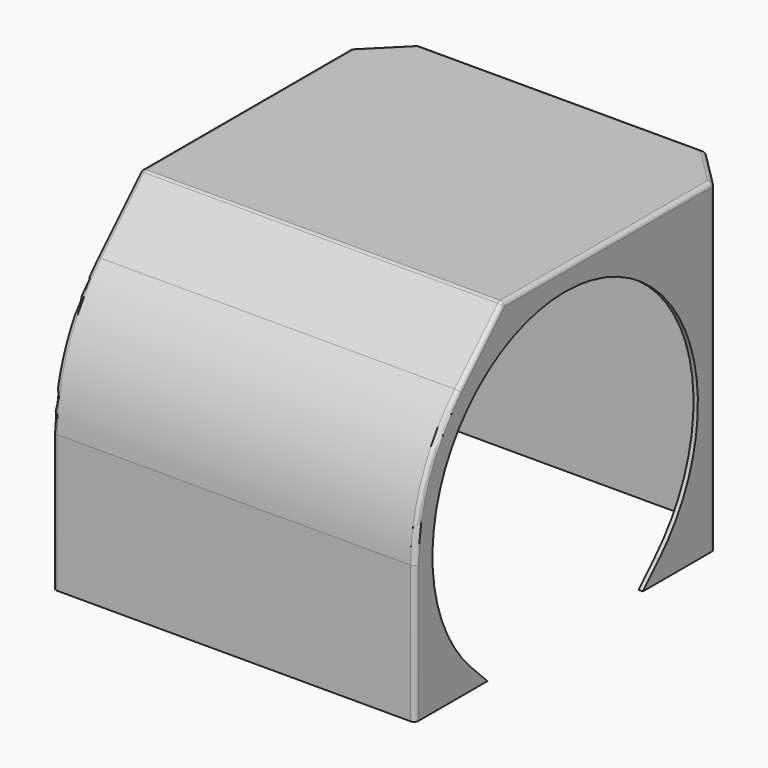
from build123d import *

# Parameters (mm, degrees)
PAD006_DEPTH    = 40.5
CHAMFER017_SIZE = 8
THICKNESS_T     = 1
POCKET015_DEPTH = 83.001


with BuildPart() as part:
    # Sketch022 → Pad006 (new body, symmetric)
    with BuildSketch(Plane.YZ):
        with BuildLine():
            ThreePointArc((-21.698485, 29.698485), (-30.80294, 16.072704), (-34, 0))
            Line((-34, 0), (-34, -31.5))
            Line((58, -31.5), (-34, -31.5))
            Line((58, 42), (58, -31.5))
            Line((-9.39697, 42), (58, 42))
            Line((-9.39697, 42), (-21.698485, 29.698485))
        make_face()
    extrude(amount=PAD006_DEPTH, both=True)

    # Chamfer017
    chamfer017_edges = [part.edges().sort_by_distance(p)[0] for p in [
        (-40.5, 58, 5.25),
        (40.5, 58, 5.25),
    ]]
    chamfer(chamfer017_edges, length=CHAMFER017_SIZE)

    # Thickness
    thickness_openings = [part.faces().sort_by_distance(p)[0] for p in [
        (0, 11.624616, -31.5),
    ]]
    offset(amount=THICKNESS_T, openings=thickness_openings)

    # Sketch023 → Pocket015 (cut, through all)
    with BuildSketch(Plane.YZ.offset(41.5)):
        with BuildLine():
            ThreePointArc((34.870058, -26.870058), (8, 38), (-18.870058, -26.870058))
            Line((-8.240115, -37.5), (-18.870058, -26.870058))
            Line((24.240115, -37.5), (-8.240115, -37.5))
            Line((34.870058, -26.870058), (24.240115, -37.5))
        make_face()
    extrude(amount=-POCKET015_DEPTH, mode=Mode.SUBTRACT)


solid = part.part
